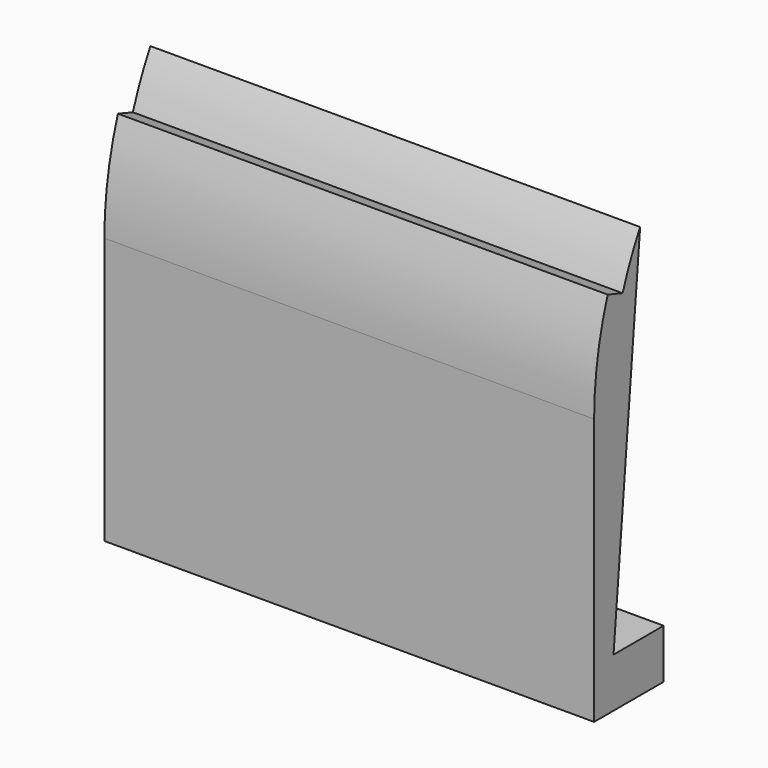
from build123d import *

# Parameters (mm, degrees)
F1_DEPTH = 62.992
F2_T     = -2.54
F3_W     = 11.176
F3_H     = 11.176
F3_R     = 1.9304
F4_DEPTH = 6.35


with BuildPart() as f1:
    # F0 (on Right) → F1 (new body)
    with BuildSketch(Plane.YZ):
        with BuildLine():
            Line((0, 34.29), (0, 0))
            Line((0, 0), (2.54, 0))
            Line((2.54, 0), (2.54, 34.29))
            ThreePointArc((2.54, 34.29), (3.0543819704, 40.5698861973), (4.5838156026, 46.6823646004))
            Line((4.5838156026, 46.6823646004), (2.1783345915, 47.498))
            ThreePointArc((2.1783345915, 47.498), (0.5482373448, 40.9832130848), (0, 34.29))
        make_face()
        with BuildLine():
            Line((2.54, 34.29), (2.54, 0))
            Line((2.54, 0), (7.3968325046, 53.0323646004))
            ThreePointArc((7.3968325046, 53.0323646004), (5.8471852484, 49.920774345), (4.5838156026, 46.6823646004))
            ThreePointArc((4.5838156026, 46.6823646004), (3.0543819704, 40.5698861973), (2.54, 34.29))
        make_face()
    extrude(amount=F1_DEPTH)

    # F2
    f2_openings = [f1.faces().sort_by_distance(p)[0] for p in [
        (31.496, 4.968416, 26.516182),
    ]]
    offset(amount=F2_T, openings=f2_openings, kind=Kind.INTERSECTION)

    # F3 (on face) → F4 (join)
    with BuildSketch(Plane(origin=(0, 0, 0), x_dir=(1, 0, 0), z_dir=(0, 0, -1))):
        with Locations((57.404, -5.588)):
            Rectangle(F3_W, F3_H)
        with Locations((57.404, -5.588)):
            Circle(F3_R, mode=Mode.SUBTRACT)
        with Locations((5.588, -5.588)):
            Rectangle(F3_W, F3_H)
        with Locations((5.588, -5.588)):
            Circle(F3_R, mode=Mode.SUBTRACT)
    extrude(amount=-F4_DEPTH)


solid = f1.part
